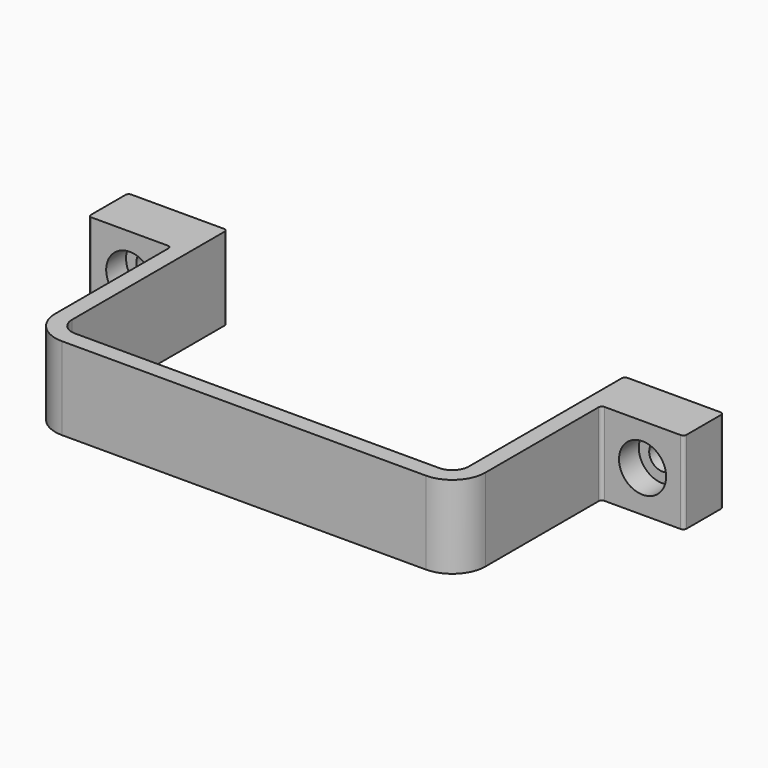
from build123d import *

# Parameters (mm, degrees)
PAD_DEPTH            = 10
SKETCH002_R          = 1.6
POCKET_DEPTH         = 6
SKETCH003_R          = 2.85
POCKET001_DEPTH      = 3
FILLET_R             = 0.4
BODY_PLACEMENT_ANGLE = 90


with BuildPart() as part:
    # Sketch → Pad (new body)
    with BuildSketch(Plane.XZ):
        with BuildLine():
            Line((-36, 0), (-36, -6))
            Line((-36, -6), (-26, -6))
            Line((-26, -6), (-26, -23.5))
            ThreePointArc((-26, -23.5), (-24.828427, -26.328427), (-22, -27.5))
            Line((-22, -27.5), (22, -27.5))
            ThreePointArc((22, -27.5), (24.828427, -26.328427), (26, -23.5))
            Line((26, -23.5), (26, -6))
            Line((26, -6), (36, -6))
            Line((36, -6), (36, 0))
            Line((36, 0), (24, 0))
            Line((24, 0), (24, -23.5))
            ThreePointArc((22, -25.5), (23.414214, -24.914214), (24, -23.5))
            Line((22, -25.5), (-22, -25.5))
            ThreePointArc((-24, -23.5), (-23.414214, -24.914214), (-22, -25.5))
            Line((-24, -23.5), (-24, 0))
            Line((-24, 0), (-36, 0))
        make_face()
    extrude(amount=-PAD_DEPTH)

    # Sketch002 (on Face4 of Pad) → Pocket (cut)
    with BuildSketch(Plane(origin=(0, 0, -6), x_dir=(1, 0, 0), z_dir=(0, 0, -1))):
        with Locations((-31, -5)):
            Circle(SKETCH002_R)
        with Locations((31, -5)):
            Circle(SKETCH002_R)
    extrude(amount=-POCKET_DEPTH, mode=Mode.SUBTRACT)

    # Sketch003 (on Face9 of Pocket) → Pocket001 (cut)
    with BuildSketch(Plane(origin=(0, 0, -6), x_dir=(1, 0, 0), z_dir=(0, 0, -1))):
        with Locations((-31, -5)):
            Circle(SKETCH003_R)
        with Locations((31, -5)):
            Circle(SKETCH003_R)
    extrude(amount=-POCKET001_DEPTH, mode=Mode.SUBTRACT)

    # Fillet
    fillet_edges = [part.edges().sort_by_distance(p)[0] for p in [
        (26, 5, -6),
        (36, 5, -6),
        (36, 5, 0),
        (24, 5, 0),
        (-24, 5, 0),
        (-36, 5, 0),
        (-36, 5, -6),
        (-26, 5, -6),
    ]]
    fillet(fillet_edges, radius=FILLET_R)


with BuildPart() as part_1:
    # Body placement: moved
    add(part.part.rotate(Axis((0, 0, 0), (-1, 0, 0)), BODY_PLACEMENT_ANGLE))


solid = part_1.part
